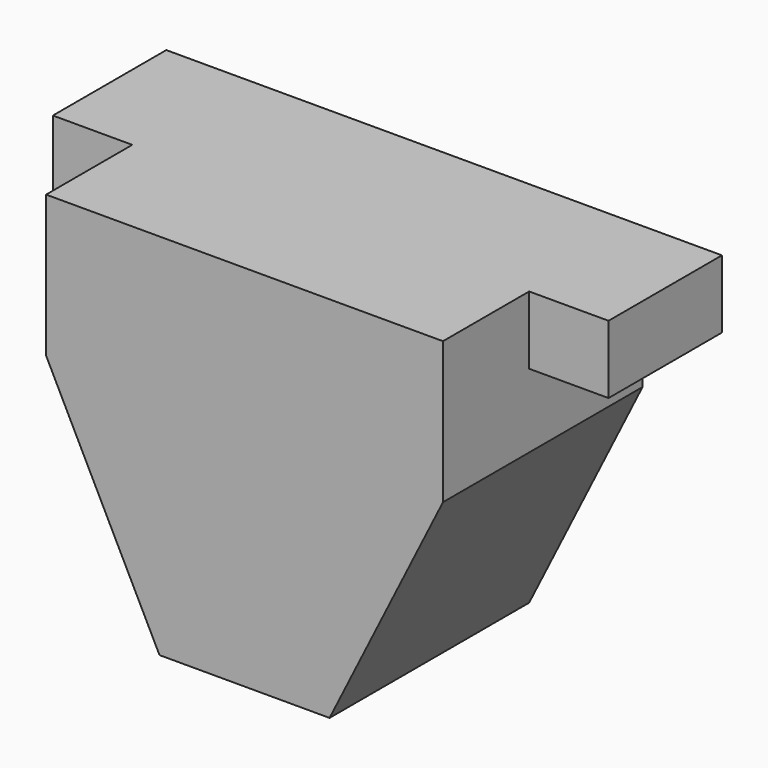
from build123d import *

# Parameters (mm, degrees)
F0_W     = 980
F0_H     = 440
F1_DEPTH = 650
F2_W     = 140
F2_H     = 650
F3_DEPTH = 190
F4_W     = 140
F4_H     = 530
F5_DEPTH = 440.001
F7_DEPTH = 440.001


with BuildPart() as f1:
    # F0 (on Top) → F1 (new body)
    with BuildSketch(Plane.XY):
        Rectangle(F0_W, F0_H)
    extrude(amount=F1_DEPTH)

    # F2 (on face) → F3 (cut)
    with BuildSketch(Plane.XZ.offset(220)):
        with Locations((-420, 325)):
            Rectangle(F2_W, F2_H)
        with Locations((420, 325)):
            Rectangle(F2_W, F2_H)
    extrude(amount=-F3_DEPTH, mode=Mode.SUBTRACT)

    # F4 (on face) → F5 (cut, through all)
    with BuildSketch(Plane(origin=(0, 220, 0), x_dir=(-1, 0, 0), z_dir=(0, 1, 0))):
        with Locations((-420, 265)):
            Rectangle(F4_W, F4_H)
        with Locations((420, 265)):
            Rectangle(F4_W, F4_H)
    extrude(amount=-F5_DEPTH, mode=Mode.SUBTRACT)

    # F6 (on face) → F7 (cut, through all)
    with BuildSketch(Plane.XZ.offset(220)):
        Polygon((-350, 400), (-350, 0), (-150, 0), align=None)
        Polygon((350, 400), (150, 0), (350, 0), align=None)
    extrude(amount=-F7_DEPTH, mode=Mode.SUBTRACT)


solid = f1.part
